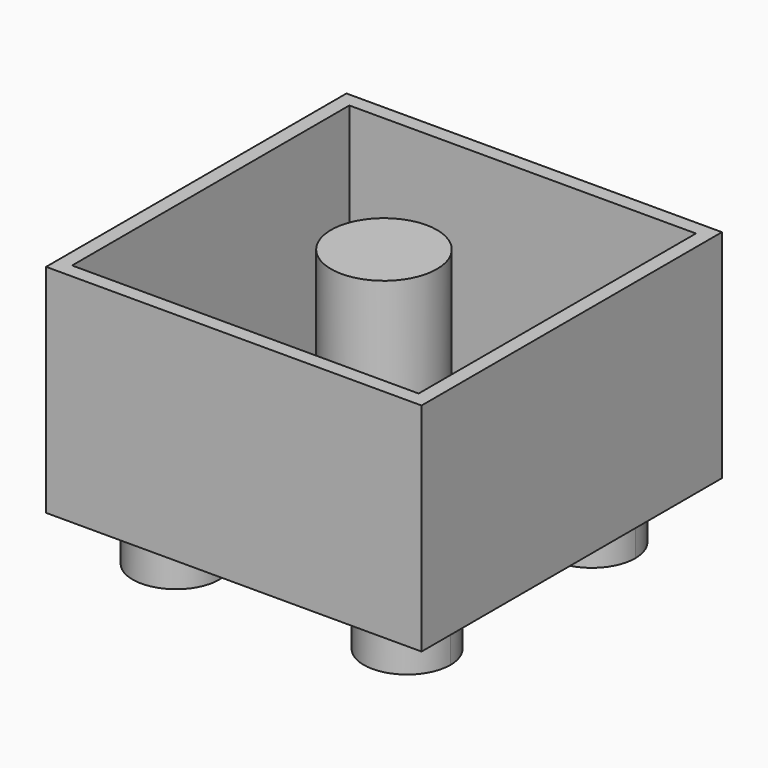
from build123d import *

# Parameters (mm, degrees)
F0_W     = 52
F0_H     = 52
F0_W_2   = 48
F0_H_2   = 48
F1_DEPTH = 30
F0_R     = 7.3390667627
F2_DEPTH = 7
F3_DEPTH = 2


with BuildPart() as f1:
    # F0 (on Top) → F1 (new body)
    with BuildSketch(Plane.XY):
        with Locations((-3.2878808908, -1.7417492345)):
            Rectangle(F0_W, F0_H)
        with Locations((-3.2878808908, -1.7417492345)):
            Rectangle(F0_W_2, F0_H_2, mode=Mode.SUBTRACT)
    extrude(amount=F1_DEPTH)



with BuildPart() as f1b:
    # F0 (on Top) → F1, piece 2 (new body)
    with BuildSketch(Plane.XY):
        with Locations((-3.2878808908, -1.7417492345)):
            Circle(F0_R)
    extrude(amount=F1_DEPTH)


with BuildPart() as f2:
    # F0 (on Top) → F2 (new body)
    with BuildSketch(Plane.XY):
        with BuildLine():
            ThreePointArc((18.7121191092, 14.2582507655), (12.7121191092, 20.2582507655), (6.7121191092, 14.2582507655))
            Line((6.7121191092, 14.2582507655), (12.7121191092, 14.2582507655))
            Line((12.7121191092, 14.2582507655), (12.7121191092, 8.2582507655))
            ThreePointArc((12.7121191092, 8.2582507655), (16.9547597963, 10.0156100784), (18.7121191092, 14.2582507655))
        make_face()
        with BuildLine():
            Line((12.7121191092, 14.2582507655), (6.7121191092, 14.2582507655))
            ThreePointArc((6.7121191092, 14.2582507655), (8.4694784221, 10.0156100784), (12.7121191092, 8.2582507655))
            Line((12.7121191092, 8.2582507655), (12.7121191092, 14.2582507655))
        make_face()
    extrude(amount=-F2_DEPTH)


with BuildPart() as f2b:
    # F0 (on Top) → F2, piece 2 (new body)
    with BuildSketch(Plane.XY):
        with BuildLine():
            Line((-19.2878808908, 14.2582507655), (-13.2878808908, 14.2582507655))
            ThreePointArc((-13.2878808908, 14.2582507655), (-23.5305215779, 18.5008914526), (-19.2878808908, 8.2582507655))
            Line((-19.2878808908, 8.2582507655), (-19.2878808908, 14.2582507655))
        make_face()
        with BuildLine():
            ThreePointArc((-19.2878808908, 8.2582507655), (-15.0452402037, 10.0156100784), (-13.2878808908, 14.2582507655))
            Line((-13.2878808908, 14.2582507655), (-19.2878808908, 14.2582507655))
            Line((-19.2878808908, 14.2582507655), (-19.2878808908, 8.2582507655))
        make_face()
    extrude(amount=-F2_DEPTH)


with BuildPart() as f2c:
    # F0 (on Top) → F2, piece 3 (new body)
    with BuildSketch(Plane.XY):
        with BuildLine():
            ThreePointArc((18.7121191092, -17.7417492345), (16.9547597963, -13.4991085474), (12.7121191092, -11.7417492345))
            Line((12.7121191092, -11.7417492345), (12.7121191092, -17.7417492345))
            Line((12.7121191092, -17.7417492345), (6.7121191092, -17.7417492345))
            ThreePointArc((6.7121191092, -17.7417492345), (12.7121191092, -23.7417492345), (18.7121191092, -17.7417492345))
        make_face()
        with BuildLine():
            Line((12.7121191092, -17.7417492345), (12.7121191092, -11.7417492345))
            ThreePointArc((12.7121191092, -11.7417492345), (8.4694784221, -13.4991085474), (6.7121191092, -17.7417492345))
            Line((6.7121191092, -17.7417492345), (12.7121191092, -17.7417492345))
        make_face()
    extrude(amount=-F2_DEPTH)


with BuildPart() as f2d:
    # F0 (on Top) → F2, piece 4 (new body)
    with BuildSketch(Plane.XY):
        with BuildLine():
            ThreePointArc((-13.2878808908, -17.7417492345), (-15.0452402037, -13.4991085474), (-19.2878808908, -11.7417492345))
            Line((-19.2878808908, -11.7417492345), (-19.2878808908, -17.7417492345))
            Line((-19.2878808908, -17.7417492345), (-13.2878808908, -17.7417492345))
        make_face()
        with BuildLine():
            Line((-19.2878808908, -17.7417492345), (-19.2878808908, -11.7417492345))
            ThreePointArc((-19.2878808908, -11.7417492345), (-23.5305215779, -21.9843899216), (-13.2878808908, -17.7417492345))
            Line((-13.2878808908, -17.7417492345), (-19.2878808908, -17.7417492345))
        make_face()
    extrude(amount=-F2_DEPTH)


with BuildPart() as f1_1:
    add(f1.part)

    add(f1b.part)  # F3 merges F1b

    add(f2.part)  # F3 merges F2

    add(f2b.part)  # F3 merges F2b

    add(f2c.part)  # F3 merges F2c

    add(f2d.part)  # F3 merges F2d
    # F0 (on Top) → F3 (join)
    with BuildSketch(Plane.XY):
        with Locations((-3.2878808908, -1.7417492345)):
            Rectangle(F0_W_2, F0_H_2)
        with BuildLine():
            ThreePointArc((-19.2878808908, 8.2582507655), (-23.5305215779, 18.5008914526), (-13.2878808908, 14.2582507655))
            Line((-13.2878808908, 14.2582507655), (6.7121191092, 14.2582507655))
            ThreePointArc((6.7121191092, 14.2582507655), (12.7121191092, 20.2582507655), (18.7121191092, 14.2582507655))
            ThreePointArc((18.7121191092, 14.2582507655), (16.9547597963, 10.0156100784), (12.7121191092, 8.2582507655))
            Line((12.7121191092, 8.2582507655), (12.7121191092, -11.7417492345))
            ThreePointArc((12.7121191092, -11.7417492345), (16.9547597963, -13.4991085474), (18.7121191092, -17.7417492345))
            ThreePointArc((18.7121191092, -17.7417492345), (12.7121191092, -23.7417492345), (6.7121191092, -17.7417492345))
            Line((6.7121191092, -17.7417492345), (-13.2878808908, -17.7417492345))
            ThreePointArc((-13.2878808908, -17.7417492345), (-23.5305215779, -21.9843899216), (-19.2878808908, -11.7417492345))
            Line((-19.2878808908, -11.7417492345), (-19.2878808908, 8.2582507655))
        make_face(mode=Mode.SUBTRACT)
        with BuildLine():
            ThreePointArc((-13.2878808908, -17.7417492345), (-15.0452402037, -13.4991085474), (-19.2878808908, -11.7417492345))
            Line((-19.2878808908, -11.7417492345), (-19.2878808908, -17.7417492345))
            Line((-19.2878808908, -17.7417492345), (-13.2878808908, -17.7417492345))
        make_face()
        with BuildLine():
            Line((-19.2878808908, -17.7417492345), (-19.2878808908, -11.7417492345))
            ThreePointArc((-19.2878808908, -11.7417492345), (-23.5305215779, -21.9843899216), (-13.2878808908, -17.7417492345))
            Line((-13.2878808908, -17.7417492345), (-19.2878808908, -17.7417492345))
        make_face()
        with BuildLine():
            Line((6.7121191092, 14.2582507655), (-13.2878808908, 14.2582507655))
            ThreePointArc((-13.2878808908, 14.2582507655), (-15.0452402037, 10.0156100784), (-19.2878808908, 8.2582507655))
            Line((-19.2878808908, 8.2582507655), (-19.2878808908, -11.7417492345))
            ThreePointArc((-19.2878808908, -11.7417492345), (-15.0452402037, -13.4991085474), (-13.2878808908, -17.7417492345))
            Line((-13.2878808908, -17.7417492345), (6.7121191092, -17.7417492345))
            ThreePointArc((6.7121191092, -17.7417492345), (8.4694784221, -13.4991085474), (12.7121191092, -11.7417492345))
            Line((12.7121191092, -11.7417492345), (12.7121191092, 8.2582507655))
            ThreePointArc((12.7121191092, 8.2582507655), (8.4694784221, 10.0156100784), (6.7121191092, 14.2582507655))
        make_face()
        with Locations((-3.2878808908, -1.7417492345)):
            Circle(F0_R, mode=Mode.SUBTRACT)
        with BuildLine():
            Line((-19.2878808908, 14.2582507655), (-13.2878808908, 14.2582507655))
            ThreePointArc((-13.2878808908, 14.2582507655), (-23.5305215779, 18.5008914526), (-19.2878808908, 8.2582507655))
            Line((-19.2878808908, 8.2582507655), (-19.2878808908, 14.2582507655))
        make_face()
        with BuildLine():
            ThreePointArc((-19.2878808908, 8.2582507655), (-15.0452402037, 10.0156100784), (-13.2878808908, 14.2582507655))
            Line((-13.2878808908, 14.2582507655), (-19.2878808908, 14.2582507655))
            Line((-19.2878808908, 14.2582507655), (-19.2878808908, 8.2582507655))
        make_face()
        with BuildLine():
            ThreePointArc((18.7121191092, 14.2582507655), (12.7121191092, 20.2582507655), (6.7121191092, 14.2582507655))
            Line((6.7121191092, 14.2582507655), (12.7121191092, 14.2582507655))
            Line((12.7121191092, 14.2582507655), (12.7121191092, 8.2582507655))
            ThreePointArc((12.7121191092, 8.2582507655), (16.9547597963, 10.0156100784), (18.7121191092, 14.2582507655))
        make_face()
        with BuildLine():
            Line((12.7121191092, 14.2582507655), (6.7121191092, 14.2582507655))
            ThreePointArc((6.7121191092, 14.2582507655), (8.4694784221, 10.0156100784), (12.7121191092, 8.2582507655))
            Line((12.7121191092, 8.2582507655), (12.7121191092, 14.2582507655))
        make_face()
        with BuildLine():
            Line((12.7121191092, -17.7417492345), (12.7121191092, -11.7417492345))
            ThreePointArc((12.7121191092, -11.7417492345), (8.4694784221, -13.4991085474), (6.7121191092, -17.7417492345))
            Line((6.7121191092, -17.7417492345), (12.7121191092, -17.7417492345))
        make_face()
        with BuildLine():
            ThreePointArc((18.7121191092, -17.7417492345), (16.9547597963, -13.4991085474), (12.7121191092, -11.7417492345))
            Line((12.7121191092, -11.7417492345), (12.7121191092, -17.7417492345))
            Line((12.7121191092, -17.7417492345), (6.7121191092, -17.7417492345))
            ThreePointArc((6.7121191092, -17.7417492345), (12.7121191092, -23.7417492345), (18.7121191092, -17.7417492345))
        make_face()
        with Locations((-3.2878808908, -1.7417492345)):
            Circle(F0_R)
    extrude(amount=F3_DEPTH)


solid = f1_1.part
